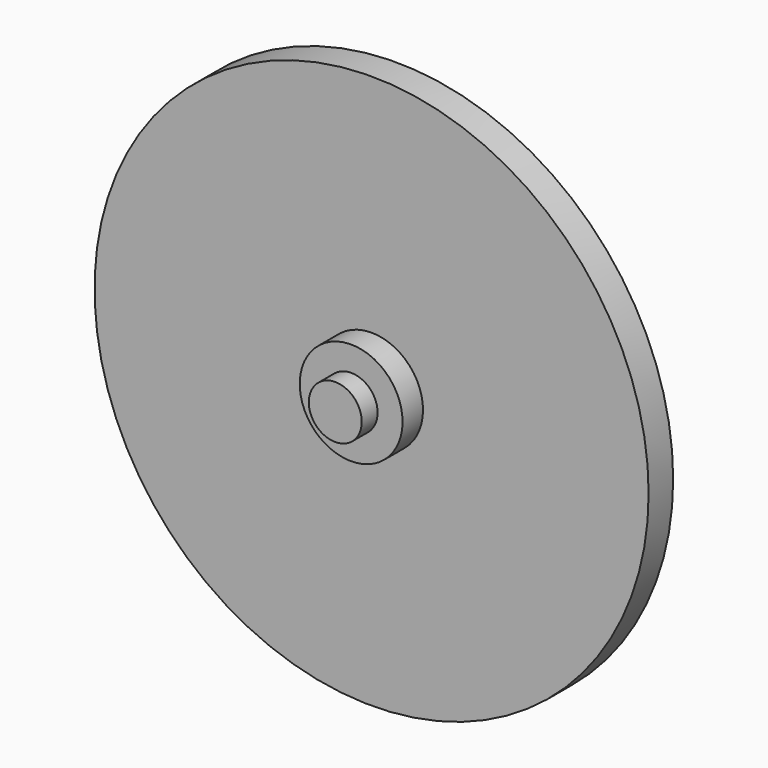
from build123d import *

# Parameters (mm, degrees)
F0_R     = 27.0969905712
F1_DEPTH = 1.5
F2_R     = 5.028682338
F3_DEPTH = 2.5
F4_T     = -2.44
F5_DEPTH = 5


with BuildPart() as f1:
    # F0 (on Front) → F1 (new body, symmetric)
    with BuildSketch(Plane.XZ):
        Circle(F0_R)
    extrude(amount=F1_DEPTH, both=True)

    # F2 (on face) → F3 (join)
    with BuildSketch(Plane.XZ.offset(1.5)):
        Circle(F2_R)
    extrude(amount=F3_DEPTH)

    # F4
    f4_openings = [f1.faces().sort_by_distance(p)[0] for p in [
        (0, -4, 0),
    ]]
    offset(amount=F4_T, openings=f4_openings, kind=Kind.INTERSECTION)

    # F5 (add): a face of the model
    f5_faces = [f1.faces().sort_by_distance(p)[0] for p in [
        (0, -0.94, 0),
    ]]
    extrude(f5_faces, amount=F5_DEPTH)


solid = f1.part
